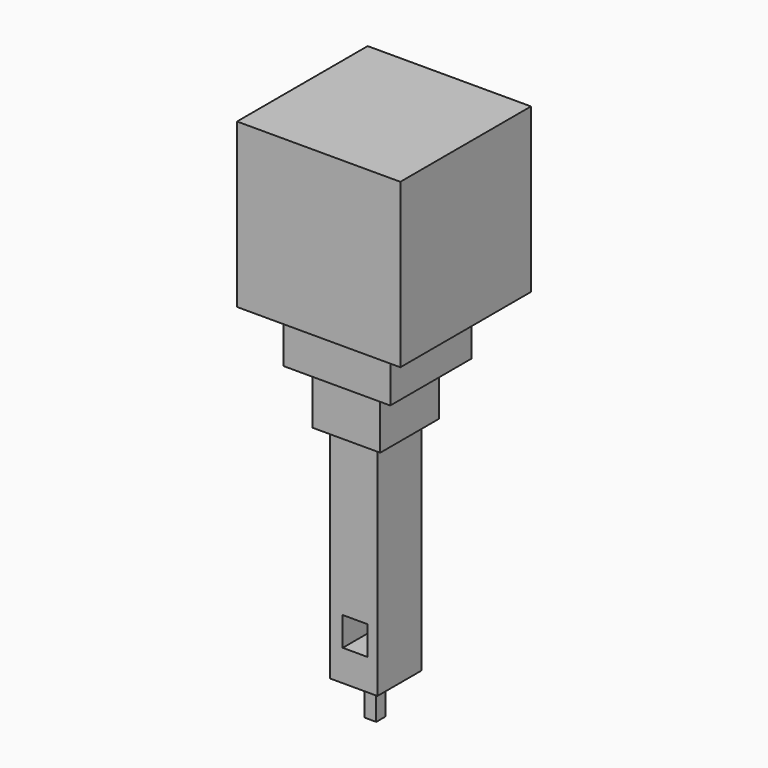
from build123d import *

# Parameters (mm, degrees)
F0_W      = 76.2
F0_H      = 76.2
F1_DEPTH  = 76.2
F2_W      = 49.722627
F2_H      = 47.354873
F3_DEPTH  = 25.4
F4_W      = 31.569913
F4_H      = 34.332275
F5_DEPTH  = 50.8
F6_W      = 22.098936
F6_H      = 25.650553
F7_DEPTH  = 154.178
F8_W      = 5.524732
F8_H      = 5.524733
F9_DEPTH  = 171.45
F10_W     = 11.54276
F10_H     = 13.466537
F11_DEPTH = 96.774


with BuildPart() as f1:
    # F0 (on Front) → F1 (new body)
    with BuildSketch(Plane.XZ):
        with Locations((-38.1, 38.1)):
            Rectangle(F0_W, F0_H)
    extrude(amount=F1_DEPTH)

    # F2 (on Top) → F3 (join)
    with BuildSketch(Plane.XY):
        with Locations((-39.363734, -40.251642)):
            Rectangle(F2_W, F2_H)
    extrude(amount=-F3_DEPTH)

    # F4 (on Top) → F5 (join)
    with BuildSketch(Plane.XY):
        with Locations((-40.350295, -40.054333)):
            Rectangle(F4_W, F4_H)
    extrude(amount=-F5_DEPTH)

    # F6 (on Top) → F7 (join)
    with BuildSketch(Plane.XY):
        with Locations((-40.547609, -39.857018)):
            Rectangle(F6_W, F6_H)
    extrude(amount=-F7_DEPTH)

    # F8 (on Top) → F9 (join)
    with BuildSketch(Plane.XY):
        with Locations((-40.547609, -40.251643)):
            Rectangle(F8_W, F8_H)
    extrude(amount=-F9_DEPTH)

    # F10 (on Front) → F11 (cut)
    with BuildSketch(Plane.XZ):
        with Locations((-39.91868, -132.913097)):
            Rectangle(F10_W, F10_H)
    extrude(amount=F11_DEPTH, mode=Mode.SUBTRACT)


solid = f1.part
